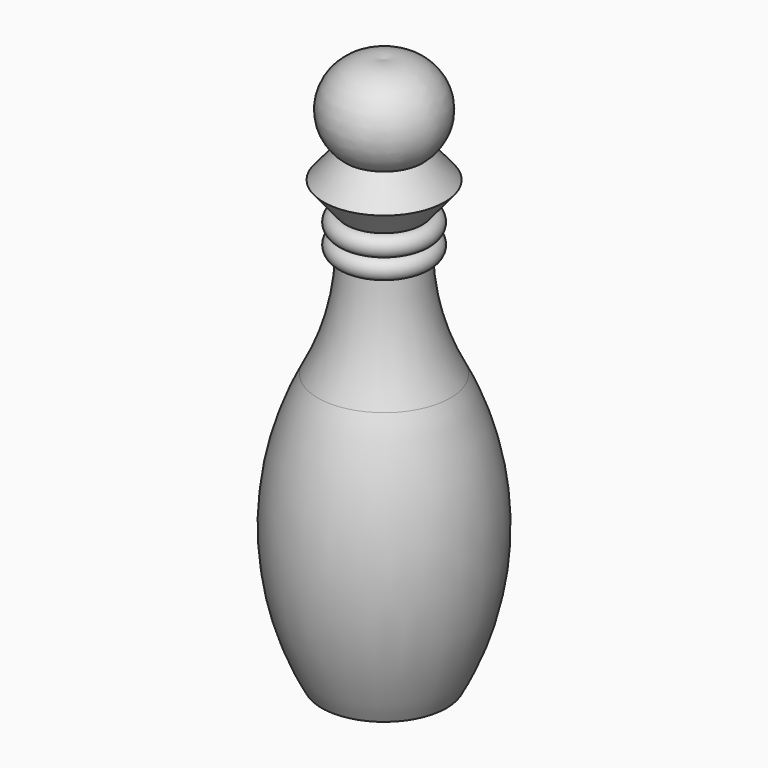
from build123d import *


with BuildPart() as f1:
    # F0 (on Front) → F1 (revolve)
    with BuildSketch(Plane.XZ):
        with BuildLine():
            ThreePointArc((9.7282, -19.9898), (12.747865, -6.158201), (0, 0))
            Line((0, 0), (0, -139.6492))
            Line((0, -139.6492), (15.8496, -139.6492))
            ThreePointArc((15.8496, -139.6492), (25.051438, -105.007342), (16.7894, -70.1294))
            ThreePointArc((16.7894, -70.1294), (11.729723, -57.424019), (9.7282, -43.895495))
            ThreePointArc((9.7282, -43.895495), (12.2682, -41.355495), (9.7282, -38.815495))
            ThreePointArc((9.7282, -38.815495), (12.2682, -36.275495), (9.7282, -33.735495))
            Line((9.7282, -33.735495), (15.367, -26.862648))
            Line((15.367, -26.862648), (9.7282, -19.9898))
        make_face()
    revolve(axis=Axis((0, 0, -69.8246), (0, 0, -1)))


solid = f1.part
